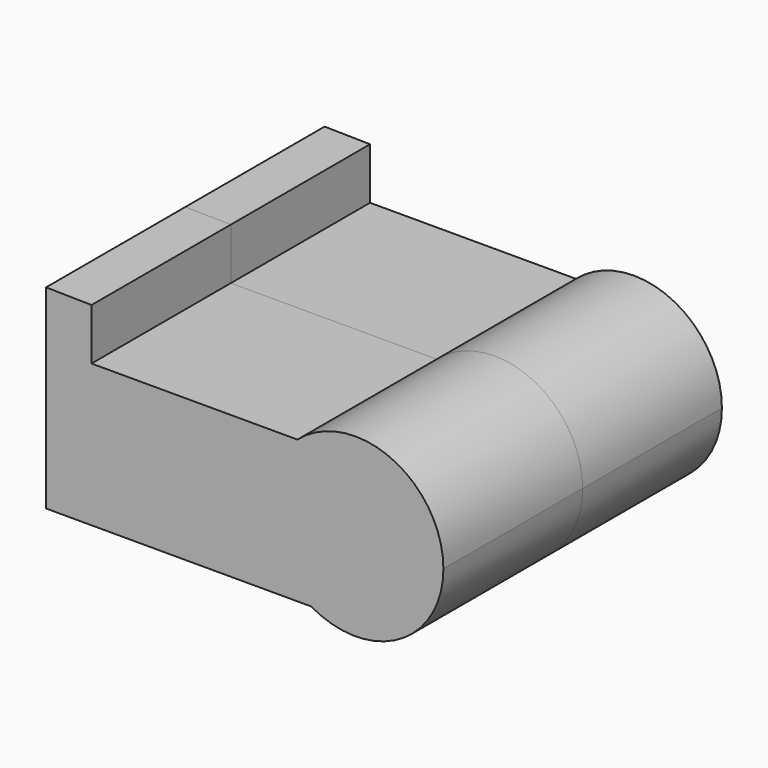
from build123d import *

# Parameters (mm, degrees)
F1_DEPTH = 7
F2_T     = -0.5
F3_R     = 1.3784685207
F3_R_2   = 1.433307667
F4_DEPTH = 0.5
F6_R     = 0.6972835292
F7_DEPTH = 0.5


with BuildPart() as f1:
    # F0 (on Front) → F1 (new body)
    with BuildSketch(Plane.XZ):
        with BuildLine():
            Line((7.3175162697, -14.5256563758), (6.9182340267, -14.5256563758))
            ThreePointArc((6.9182340267, -14.5256563758), (10.4617303531, -14.5317281984), (12.2352336133, -11.4639783278))
            ThreePointArc((12.2352336133, -11.4639783278), (10.1593911767, -8.2409606999), (6.3663959695, -8.7978734482))
            Line((6.3663959695, -8.7978734482), (7.3175162697, -8.7978734482))
            Line((7.3175162697, -8.7978734482), (7.3175162697, -14.5256563758))
        make_face()
        with BuildLine():
            ThreePointArc((6.3663959695, -8.7978734482), (5.1715495813, -11.8034644737), (6.9182340267, -14.5256563758))
            Line((6.9182340267, -14.5256563758), (7.3175162697, -14.5256563758))
            Line((7.3175162697, -14.5256563758), (7.3175162697, -8.7978734482))
            Line((7.3175162697, -8.7978734482), (6.3663959695, -8.7978734482))
        make_face()
        with BuildLine():
            Line((-3.7424837303, -6.6956563758), (-3.7424837303, -14.5256563758))
            Line((-3.7424837303, -14.5256563758), (6.9182340267, -14.5256563758))
            ThreePointArc((6.9182340267, -14.5256563758), (5.1715495813, -11.8034644737), (6.3663959695, -8.7978734482))
            Line((6.3663959695, -8.7978734482), (-1.9144690588, -8.7978734482))
            Line((-1.9144690588, -8.7978734482), (-1.9144690588, -6.7261224193))
            Line((-1.9144690588, -6.7261224193), (-3.7424837303, -6.6956563758))
        make_face()
    extrude(amount=F1_DEPTH)

    # F2
    f2_openings = [f1.faces().sort_by_distance(p)[0] for p in [
        (-3.742484, -3.5, -10.610656),
    ]]
    offset(amount=F2_T, openings=f2_openings, kind=Kind.INTERSECTION)

    # F3 (on face) → F4 (cut, through all)
    with BuildSketch(Plane(origin=(0, 0, -14.5256563758), x_dir=(1, 0, 0), z_dir=(0, 0, -1))):
        with Locations((3.4770593047, 3.7943422794)):
            Circle(F3_R)
        with Locations((0, 3.7320032716)):
            Circle(F3_R_2)
    extrude(amount=-F4_DEPTH, mode=Mode.SUBTRACT)

    # F6 (on face) → F7 (cut, through all)
    with BuildSketch(Plane.XZ.offset(7)):
        with Locations((8.7642520666, -11.7320865393)):
            Circle(F6_R)
    extrude(amount=-F7_DEPTH, mode=Mode.SUBTRACT)


with BuildPart() as f8_1:
    # F8: instance of F1
    add(f1.part.mirror(Plane.XZ.offset(7)))


solid = Compound([f1.part, f8_1.part])
